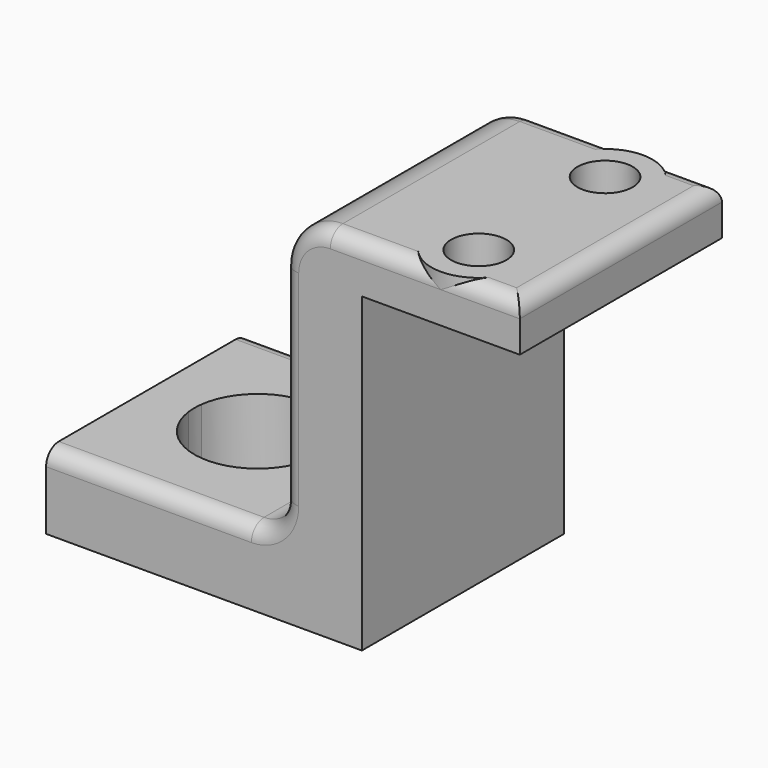
from build123d import *

# Parameters (mm, degrees)
F1_DEPTH  = 16
F2_R      = 1.75
F3_DEPTH  = 25
F5_DEPTH  = 25
F6_R      = 2
F7_R      = 3
F8_R      = 1
F9_R      = 3
F9_R_2    = 1.75
F10_DEPTH = 2
F11_R     = 1


with BuildPart() as f1:
    # F0 (on Front) → F1 (new body)
    with BuildSketch(Plane.XZ):
        Polygon((0, 4.745212), (0, 0), (20, 0), (20, 19.745212), (30, 19.745212), (30, 22.745212), (15, 22.745212), (15, 4.745212), align=None)
    extrude(amount=F1_DEPTH)

    # F2 (on face) → F3 (cut)
    with BuildSketch(Plane.XY.offset(22.745212)):
        with Locations((25, -3)):
            Circle(F2_R)
        with Locations((25, -13)):
            Circle(F2_R)
    extrude(amount=-F3_DEPTH, mode=Mode.SUBTRACT)

    # F4 (on face) → F5 (cut)
    with BuildSketch(Plane.XY.offset(4.745212)):
        with BuildLine():
            ThreePointArc((3.031373, -7.5), (3, -8), (3.031373, -8.5))
            ThreePointArc((3.031373, -8.5), (9.828427, -10.828427), (7.5, -4.031373))
            ThreePointArc((7.5, -4.031373), (7, -4), (6.5, -4.031373))
            ThreePointArc((6.5, -4.031373), (4.171573, -5.171573), (3.031373, -7.5))
        make_face()
        with BuildLine():
            ThreePointArc((6.5, -4.031373), (7, -4), (7.5, -4.031373))
            Line((7.5, -4.031373), (7.5, 0.274567))
            Line((7.5, 0.274567), (6.5, 0.274567))
            Line((6.5, 0.274567), (6.5, -4.031373))
        make_face()
    extrude(amount=-F5_DEPTH, mode=Mode.SUBTRACT)

    # F6
    f6_edges = [f1.edges().sort_by_distance(p)[0] for p in [
        (15, -8, 4.745212),
    ]]
    fillet(f6_edges, radius=F6_R)

    # F7
    f7_edges = [f1.edges().sort_by_distance(p)[0] for p in [
        (15, -8, 22.745212),
    ]]
    fillet(f7_edges, radius=F7_R)

    # F8
    f8_edges = [f1.edges().sort_by_distance(p)[0] for p in [
        (30, -8, 22.745212),
        (24, -16, 22.745212),
        (24, 0, 22.745212),
    ]]
    fillet(f8_edges, radius=F8_R)

    # F9 (on face) → F10 (join)
    with BuildSketch(Plane.XY.offset(22.745212)):
        with Locations((25, -3)):
            Circle(F9_R)
        with Locations((25, -3)):
            Circle(F9_R_2, mode=Mode.SUBTRACT)
        with Locations((25, -13)):
            Circle(F9_R)
        with Locations((25, -13)):
            Circle(F9_R_2, mode=Mode.SUBTRACT)
    extrude(amount=-F10_DEPTH)

    # F11
    f11_edges = [f1.edges().sort_by_distance(p)[0] for p in [
        (3.25, 0, 4.745212),
    ]]
    fillet(f11_edges, radius=F11_R)


solid = f1.part
